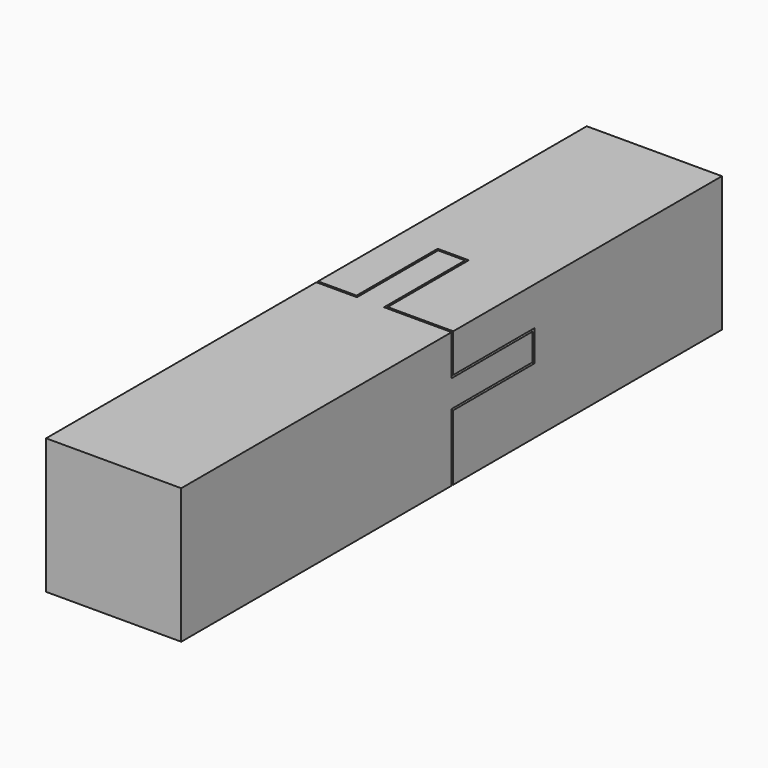
from build123d import *

# Parameters (mm, degrees)
F0_W      = 20
F0_H      = 20
F1_DEPTH  = 50
F2_W      = 4
F2_H      = 4
F3_DEPTH  = 15
F4_W      = 20
F4_H      = 20
F5_DEPTH  = 50
F6_OFFSET = 0.3


with BuildPart() as f1:
    # F0 (on Front) → F1 (new body)
    with BuildSketch(Plane.XZ):
        Rectangle(F0_W, F0_H)
    extrude(amount=F1_DEPTH)

    # F2 (on face) → F3 (join)
    with BuildSketch(Plane(origin=(0, 0, 0), x_dir=(-1, 0, 0), z_dir=(0, 1, 0))):
        with Locations((2, 8)):
            Rectangle(F2_W, F2_H)
        with Locations((-2, -8)):
            Rectangle(F2_W, F2_H)
        with Locations((8, -2)):
            Rectangle(F2_W, F2_H)
        with Locations((-8, 2)):
            Rectangle(F2_W, F2_H)
    extrude(amount=F3_DEPTH)


with BuildPart() as f5:
    # F4 (on Front) → F5 (new body)
    with BuildSketch(Plane.XZ):
        Rectangle(F4_W, F4_H)
    extrude(amount=-F5_DEPTH)

    # F6: cut F1, made larger all round first
    f6_tool = offset(f1.part, amount=F6_OFFSET, kind=Kind.INTERSECTION, mode=Mode.PRIVATE)
    add(f6_tool, mode=Mode.SUBTRACT)


solid = Compound([f1.part, f5.part])
